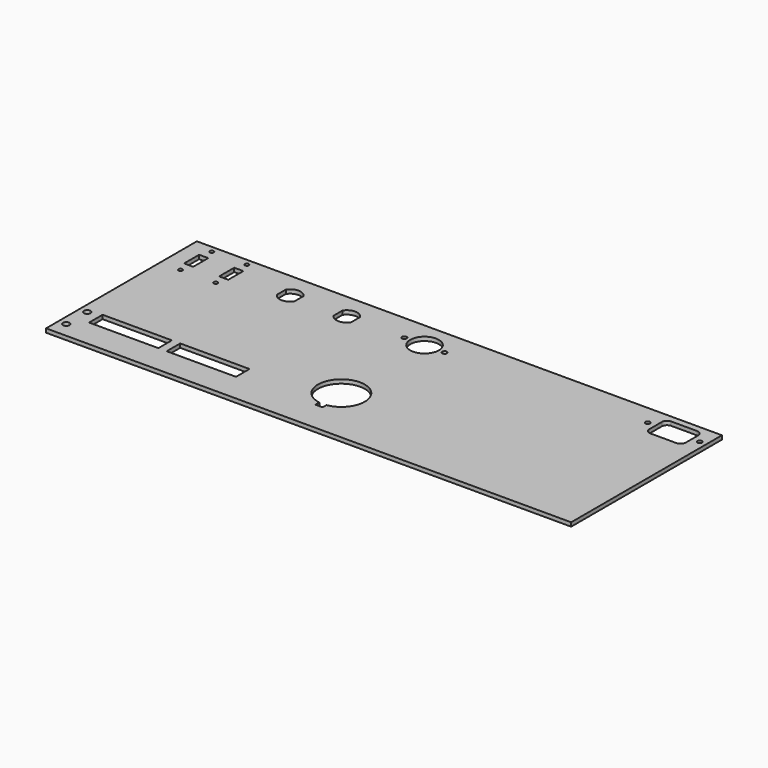
from build123d import *

# Parameters (mm, degrees)
F0_W     = 404
F0_H     = 145
F2_DEPTH = 3
F1_R     = 2.5
F1_R_2   = 11
F1_R_3   = 1.8
F1_R_4   = 1.75
F1_W     = 53.3
F1_H     = 13
F1_W_2   = 7
F1_H_2   = 14.5
F1_R_5   = 1.5
F3_DEPTH = 25


with BuildPart() as f2:
    # F0 (on Top) → F2 (new body)
    with BuildSketch(Plane.XY):
        with Locations((-14.1859020234, -7.6260944492)):
            Rectangle(F0_W, F0_H)
    extrude(amount=-F2_DEPTH)

    # F1 (on Top) → F3 (cut)
    with BuildSketch(Plane.XY):
        with Locations((-210.1859020234, -68.1260944492)):
            Circle(F1_R)
        with BuildLine():
            Line((-135.1859020234, 49.1823275357), (-135.1859020234, 40.5654835659))
            ThreePointArc((-135.1859020234, 40.5654835659), (-128.3859020234, 36.8239055508), (-121.5859020234, 40.5654835659))
            Line((-121.5859020234, 40.5654835659), (-121.5859020234, 49.1823275357))
            ThreePointArc((-121.5859020234, 49.1823275357), (-128.3859020234, 52.9239055508), (-135.1859020234, 49.1823275357))
        make_face()
        with BuildLine():
            ThreePointArc((-22.25, -52.9147846764), (-11.3343496313, -46.8414689631), (-7, -35.1260944492))
            ThreePointArc((-7, -35.1260944492), (-36.7153745139, -21.4604440805), (-27.75, -52.9147846764))
            Line((-27.75, -52.9147846764), (-27.75, -31.4030106551))
            Line((-27.75, -31.4030106551), (-22.25, -31.4030106551))
            Line((-22.25, -31.4030106551), (-22.25, -52.9147846764))
        make_face()
        with BuildLine():
            Line((-27.75, -31.4030106551), (-27.75, -52.9147846764))
            ThreePointArc((-27.75, -52.9147846764), (-25, -53.1260944492), (-22.25, -52.9147846764))
            Line((-22.25, -52.9147846764), (-22.25, -31.4030106551))
            Line((-22.25, -31.4030106551), (-27.75, -31.4030106551))
        make_face()
        with BuildLine():
            ThreePointArc((-22.25, -52.9147846764), (-25, -53.1260944492), (-27.75, -52.9147846764))
            Line((-27.75, -52.9147846764), (-27.75, -56.6260944492))
            Line((-27.75, -56.6260944492), (-22.25, -56.6260944492))
            Line((-22.25, -56.6260944492), (-22.25, -52.9147846764))
        make_face()
        with Locations((-25, 44.8739055508)):
            Circle(F1_R_2)
        with Locations((-40.5, 44.8739055508)):
            Circle(F1_R_3)
        with Locations((-9.5, 44.8739055508)):
            Circle(F1_R_3)
        with Locations((-210.1859020234, -48.1260944492)):
            Circle(F1_R)
        with BuildLine():
            Line((152.8140979766, 39.8739055508), (172.8140979766, 39.8739055508))
            ThreePointArc((172.8140979766, 39.8739055508), (175.6425251014, 41.045478426), (176.8140979766, 43.8739055508))
            Line((176.8140979766, 43.8739055508), (176.8140979766, 55.8739055508))
            ThreePointArc((176.8140979766, 55.8739055508), (175.6425251014, 58.7023326755), (172.8140979766, 59.8739055508))
            Line((172.8140979766, 59.8739055508), (152.8140979766, 59.8739055508))
            ThreePointArc((152.8140979766, 59.8739055508), (149.9856708519, 58.7023326755), (148.8140979766, 55.8739055508))
            Line((148.8140979766, 55.8739055508), (148.8140979766, 43.8739055508))
            ThreePointArc((148.8140979766, 43.8739055508), (149.9856708519, 41.045478426), (152.8140979766, 39.8739055508))
        make_face()
        with Locations((142.8140979766, 49.8739055508)):
            Circle(F1_R_4)
        with Locations((182.8140979766, 49.8739055508)):
            Circle(F1_R_4)
        with Locations((-174.0359020234, -51.6260944492)):
            Rectangle(F1_W, F1_H)
        with Locations((-114.3359020234, -51.6260944492)):
            Rectangle(F1_W, F1_H)
        with Locations((-200.6859020234, 44.8239055508)):
            Rectangle(F1_W_2, F1_H_2)
        with Locations((-200.6859020234, 59.8739055508)):
            Circle(F1_R_5)
        with Locations((-200.6859020234, 29.7739055508)):
            Circle(F1_R_5)
        with Locations((-173.6859020234, 44.8239055508)):
            Rectangle(F1_W_2, F1_H_2)
        with Locations((-173.6859020234, 59.8739055508)):
            Circle(F1_R_5)
        with Locations((-173.6859020234, 29.7739055508)):
            Circle(F1_R_5)
        with BuildLine():
            Line((-91.5859020234, 49.1823275357), (-91.5859020234, 40.5654835659))
            ThreePointArc((-91.5859020234, 40.5654835659), (-84.7859020234, 36.8239055508), (-77.9859020234, 40.5654835659))
            Line((-77.9859020234, 40.5654835659), (-77.9859020234, 49.1823275357))
            ThreePointArc((-77.9859020234, 49.1823275357), (-84.7859020234, 52.9239055508), (-91.5859020234, 49.1823275357))
        make_face()
    extrude(amount=-F3_DEPTH, mode=Mode.SUBTRACT)


solid = f2.part
